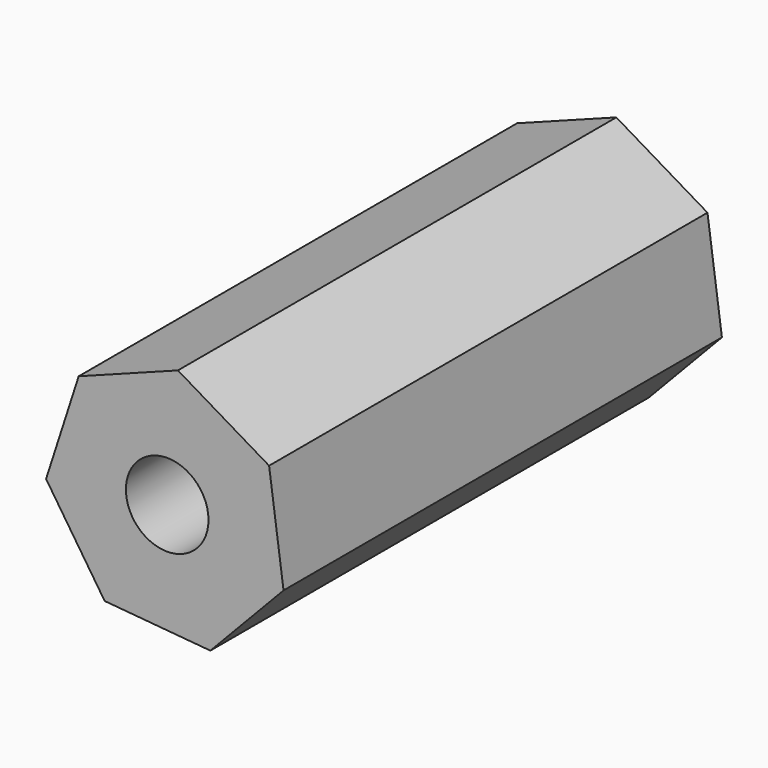
from build123d import *

# Parameters (mm, degrees)
F1_DEPTH = 199
F2_R     = 15
F3_DEPTH = 199.001


with BuildPart() as f1:
    # F0 (on Front) → F1 (new body)
    with BuildSketch(Plane.XZ):
        Polygon((37.007263, 24.526007), (3.898447, 44.225159), (-32.14598, 30.621864), (-43.983828, -6.040319), (-22.700957, -38.154019), (15.676198, -41.536964), (42.248856, -13.641728), align=None)
    extrude(amount=F1_DEPTH)

    # F2 (on Front) → F3 (cut, through all)
    with BuildSketch(Plane.XZ):
        Circle(F2_R)
    extrude(amount=F3_DEPTH, mode=Mode.SUBTRACT)


solid = f1.part
